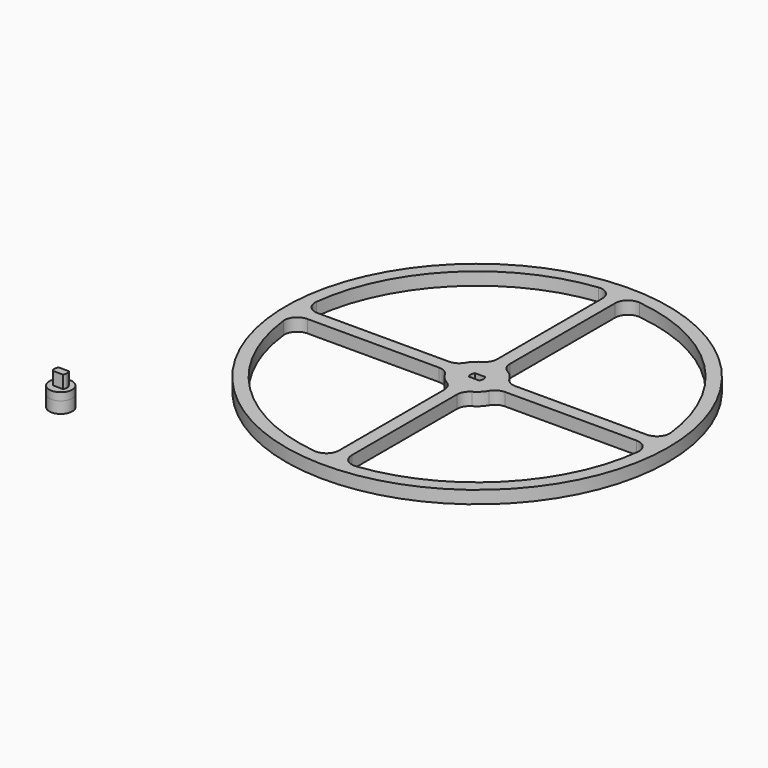
from build123d import *

# Parameters (mm, degrees)
F0_R     = 75
F1_DEPTH = 5
F2_R     = 4.5
F3_DEPTH = 4.5
F4_DEPTH = 3
F5_W     = 3.949684
F5_H     = 2.9
F6_DEPTH = 5


with BuildPart() as f1:
    # F0 (on Top) → F1 (new body)
    with BuildSketch(Plane.XY):
        Circle(F0_R)
        with BuildLine():
            Line((-64.565858, -2.5), (-12.990381, -2.5))
            ThreePointArc((-12.990381, -2.5), (-10.490381, -3.169873), (-8.660254, -5))
            ThreePointArc((-8.660254, -5), (-7.071068, -7.071068), (-5, -8.660254))
            ThreePointArc((-5, -8.660254), (-3.169873, -10.490381), (-2.5, -12.990381))
            Line((-2.5, -12.990381), (-2.5, -64.565858))
            ThreePointArc((-2.5, -64.565858), (-4.174689, -68.299798), (-8.076923, -69.532462))
            ThreePointArc((-8.076923, -69.532462), (-49.497475, -49.497475), (-69.532462, -8.076923))
            ThreePointArc((-69.532462, -8.076923), (-68.299798, -4.174689), (-64.565858, -2.5))
        make_face(mode=Mode.SUBTRACT)
        with BuildLine():
            ThreePointArc((8.660254, -5), (10.490381, -3.169873), (12.990381, -2.5))
            Line((12.990381, -2.5), (64.565858, -2.5))
            ThreePointArc((64.565858, -2.5), (68.299798, -4.174689), (69.532462, -8.076923))
            ThreePointArc((69.532462, -8.076923), (49.497475, -49.497475), (8.076923, -69.532462))
            ThreePointArc((8.076923, -69.532462), (4.174689, -68.299798), (2.5, -64.565858))
            Line((2.5, -64.565858), (2.5, -12.990381))
            ThreePointArc((2.5, -12.990381), (3.169873, -10.490381), (5, -8.660254))
            ThreePointArc((5, -8.660254), (7.071068, -7.071068), (8.660254, -5))
        make_face(mode=Mode.SUBTRACT)
        with BuildLine():
            Line((-2.5, 64.565858), (-2.5, 12.990381))
            ThreePointArc((-2.5, 12.990381), (-3.169873, 10.490381), (-5, 8.660254))
            ThreePointArc((-5, 8.660254), (-7.071068, 7.071068), (-8.660254, 5))
            ThreePointArc((-8.660254, 5), (-10.490381, 3.169873), (-12.990381, 2.5))
            Line((-12.990381, 2.5), (-64.565858, 2.5))
            ThreePointArc((-64.565858, 2.5), (-68.299798, 4.174689), (-69.532462, 8.076923))
            ThreePointArc((-69.532462, 8.076923), (-49.497475, 49.497475), (-8.076923, 69.532462))
            ThreePointArc((-8.076923, 69.532462), (-4.174689, 68.299798), (-2.5, 64.565858))
        make_face(mode=Mode.SUBTRACT)
        with BuildLine():
            ThreePointArc((-2, -1.5), (-2.5, 0), (-2, 1.5))
            Line((-2, 1.5), (2, 1.5))
            ThreePointArc((2, 1.5), (2.5, 0), (2, -1.5))
            Line((2, -1.5), (-2, -1.5))
        make_face(mode=Mode.SUBTRACT)
        with BuildLine():
            ThreePointArc((12.990381, 2.5), (10.490381, 3.169873), (8.660254, 5))
            ThreePointArc((8.660254, 5), (7.071068, 7.071068), (5, 8.660254))
            ThreePointArc((5, 8.660254), (3.169873, 10.490381), (2.5, 12.990381))
            Line((2.5, 12.990381), (2.5, 64.565858))
            ThreePointArc((2.5, 64.565858), (4.174689, 68.299798), (8.076923, 69.532462))
            ThreePointArc((8.076923, 69.532462), (49.497475, 49.497475), (69.532462, 8.076923))
            ThreePointArc((69.532462, 8.076923), (68.299798, 4.174689), (64.565858, 2.5))
            Line((64.565858, 2.5), (12.990381, 2.5))
        make_face(mode=Mode.SUBTRACT)
    extrude(amount=F1_DEPTH)


with BuildPart() as f3:
    # F2 (on Top) → F3 (new body)
    with BuildSketch(Plane.XY):
        with Locations((-98.383606, -81.141531)):
            Circle(F2_R)
        with BuildLine():
            Line((-100.575833, -78.807047), (-100.1234, -78.821377))
            ThreePointArc((-100.1234, -78.821377), (-100.088183, -78.795382), (-100.052578, -78.769922))
            Line((-100.052578, -78.769922), (-99.926398, -78.335204))
            Line((-99.926398, -78.335204), (-99.491742, -78.4616))
            ThreePointArc((-99.491742, -78.4616), (-99.451167, -78.44518), (-99.410349, -78.429374))
            Line((-99.410349, -78.429374), (-99.180023, -78.039693))
            Line((-99.180023, -78.039693), (-98.790456, -78.270212))
            ThreePointArc((-98.790456, -78.270212), (-98.747072, -78.264399), (-98.703606, -78.259241))
            Line((-98.703606, -78.259241), (-98.383606, -77.939083))
            Line((-98.383606, -77.939083), (-98.063606, -78.259241))
            ThreePointArc((-98.063606, -78.259241), (-98.02014, -78.264399), (-97.976756, -78.270212))
            Line((-97.976756, -78.270212), (-97.587189, -78.039693))
            Line((-97.587189, -78.039693), (-97.356863, -78.429374))
            ThreePointArc((-97.356863, -78.429374), (-97.316045, -78.44518), (-97.27547, -78.4616))
            Line((-97.27547, -78.4616), (-96.840815, -78.335204))
            Line((-96.840815, -78.335204), (-96.714634, -78.769922))
            ThreePointArc((-96.714634, -78.769922), (-96.679029, -78.795382), (-96.643812, -78.821377))
            Line((-96.643812, -78.821377), (-96.191379, -78.807047))
            Line((-96.191379, -78.807047), (-96.177272, -79.259487))
            ThreePointArc((-96.177272, -79.259487), (-96.149118, -79.293002), (-96.121472, -79.326938))
            Line((-96.121472, -79.326938), (-95.679689, -79.425574))
            Line((-95.679689, -79.425574), (-95.778543, -79.867308))
            ThreePointArc((-95.778543, -79.867308), (-95.759608, -79.906772), (-95.74127, -79.946517))
            Line((-95.74127, -79.946517), (-95.337896, -80.15192))
            Line((-95.337896, -80.15192), (-95.543499, -80.555193))
            ThreePointArc((-95.543499, -80.555193), (-95.534973, -80.598126), (-95.527096, -80.641182))
            Line((-95.527096, -80.641182), (-95.187476, -80.940448))
            Line((-95.187476, -80.940448), (-95.48691, -81.27992))
            ThreePointArc((-95.48691, -81.27992), (-95.489329, -81.323624), (-95.492407, -81.367287))
            Line((-95.492407, -81.367287), (-95.237881, -81.741611))
            Line((-95.237881, -81.741611), (-95.612331, -81.995951))
            ThreePointArc((-95.612331, -81.995951), (-95.625542, -82.037681), (-95.639382, -82.079207))
            Line((-95.639382, -82.079207), (-95.485944, -82.505068))
            Line((-95.485944, -82.505068), (-95.911881, -82.658296))
            ThreePointArc((-95.911881, -82.658296), (-95.935055, -82.695429), (-95.958787, -82.732209))
            Line((-95.958787, -82.732209), (-95.916077, -83.182849))
            Line((-95.916077, -83.182849), (-96.366739, -83.225337))
            ThreePointArc((-96.366739, -83.225337), (-96.398419, -83.255541), (-96.430553, -83.285262))
            Line((-96.430553, -83.285262), (-96.501254, -83.732367))
            Line((-96.501254, -83.732367), (-96.948323, -83.661445))
            ThreePointArc((-96.948323, -83.661445), (-96.98652, -83.682821), (-97.025036, -83.703618))
            Line((-97.025036, -83.703618), (-97.204706, -84.119093))
            Line((-97.204706, -84.119093), (-97.620093, -83.939218))
            ThreePointArc((-97.620093, -83.939218), (-97.662405, -83.950423), (-97.704882, -83.960988))
            Line((-97.704882, -83.960988), (-97.982233, -84.318728))
            Line((-97.982233, -84.318728), (-98.339836, -84.041201))
            ThreePointArc((-98.339836, -84.041201), (-98.383606, -84.041531), (-98.427376, -84.041201))
            Line((-98.427376, -84.041201), (-98.784979, -84.318728))
            Line((-98.784979, -84.318728), (-99.06233, -83.960988))
            ThreePointArc((-99.06233, -83.960988), (-99.104807, -83.950423), (-99.14712, -83.939218))
            Line((-99.14712, -83.939218), (-99.562506, -84.119093))
            Line((-99.562506, -84.119093), (-99.742176, -83.703618))
            ThreePointArc((-99.742176, -83.703618), (-99.780692, -83.682821), (-99.818889, -83.661445))
            Line((-99.818889, -83.661445), (-100.265958, -83.732367))
            Line((-100.265958, -83.732367), (-100.336659, -83.285262))
            ThreePointArc((-100.336659, -83.285262), (-100.368793, -83.255541), (-100.400474, -83.225337))
            Line((-100.400474, -83.225337), (-100.851135, -83.182849))
            Line((-100.851135, -83.182849), (-100.808425, -82.732209))
            ThreePointArc((-100.808425, -82.732209), (-100.832157, -82.695429), (-100.855331, -82.658296))
            Line((-100.855331, -82.658296), (-101.281268, -82.505068))
            Line((-101.281268, -82.505068), (-101.12783, -82.079207))
            ThreePointArc((-101.12783, -82.079207), (-101.14167, -82.037681), (-101.154881, -81.995951))
            Line((-101.154881, -81.995951), (-101.529331, -81.741611))
            Line((-101.529331, -81.741611), (-101.274806, -81.367287))
            ThreePointArc((-101.274806, -81.367287), (-101.277884, -81.323624), (-101.280302, -81.27992))
            Line((-101.280302, -81.27992), (-101.579736, -80.940448))
            Line((-101.579736, -80.940448), (-101.240116, -80.641182))
            ThreePointArc((-101.240116, -80.641182), (-101.232239, -80.598126), (-101.223713, -80.555193))
            Line((-101.223713, -80.555193), (-101.429316, -80.15192))
            Line((-101.429316, -80.15192), (-101.025942, -79.946517))
            ThreePointArc((-101.025942, -79.946517), (-101.007604, -79.906772), (-100.988669, -79.867308))
            Line((-100.988669, -79.867308), (-101.087523, -79.425574))
            Line((-101.087523, -79.425574), (-100.64574, -79.326938))
            ThreePointArc((-100.64574, -79.326938), (-100.618094, -79.293002), (-100.58994, -79.259487))
            Line((-100.58994, -79.259487), (-100.575833, -78.807047))
        make_face(mode=Mode.SUBTRACT)
    extrude(amount=-F3_DEPTH)

    # F2 (on Top) → F4 (join)
    with BuildSketch(Plane.XY):
        with Locations((-98.383606, -81.141531)):
            Circle(F2_R)
        with BuildLine():
            Line((-100.575833, -78.807047), (-100.1234, -78.821377))
            ThreePointArc((-100.1234, -78.821377), (-100.088183, -78.795382), (-100.052578, -78.769922))
            Line((-100.052578, -78.769922), (-99.926398, -78.335204))
            Line((-99.926398, -78.335204), (-99.491742, -78.4616))
            ThreePointArc((-99.491742, -78.4616), (-99.451167, -78.44518), (-99.410349, -78.429374))
            Line((-99.410349, -78.429374), (-99.180023, -78.039693))
            Line((-99.180023, -78.039693), (-98.790456, -78.270212))
            ThreePointArc((-98.790456, -78.270212), (-98.747072, -78.264399), (-98.703606, -78.259241))
            Line((-98.703606, -78.259241), (-98.383606, -77.939083))
            Line((-98.383606, -77.939083), (-98.063606, -78.259241))
            ThreePointArc((-98.063606, -78.259241), (-98.02014, -78.264399), (-97.976756, -78.270212))
            Line((-97.976756, -78.270212), (-97.587189, -78.039693))
            Line((-97.587189, -78.039693), (-97.356863, -78.429374))
            ThreePointArc((-97.356863, -78.429374), (-97.316045, -78.44518), (-97.27547, -78.4616))
            Line((-97.27547, -78.4616), (-96.840815, -78.335204))
            Line((-96.840815, -78.335204), (-96.714634, -78.769922))
            ThreePointArc((-96.714634, -78.769922), (-96.679029, -78.795382), (-96.643812, -78.821377))
            Line((-96.643812, -78.821377), (-96.191379, -78.807047))
            Line((-96.191379, -78.807047), (-96.177272, -79.259487))
            ThreePointArc((-96.177272, -79.259487), (-96.149118, -79.293002), (-96.121472, -79.326938))
            Line((-96.121472, -79.326938), (-95.679689, -79.425574))
            Line((-95.679689, -79.425574), (-95.778543, -79.867308))
            ThreePointArc((-95.778543, -79.867308), (-95.759608, -79.906772), (-95.74127, -79.946517))
            Line((-95.74127, -79.946517), (-95.337896, -80.15192))
            Line((-95.337896, -80.15192), (-95.543499, -80.555193))
            ThreePointArc((-95.543499, -80.555193), (-95.534973, -80.598126), (-95.527096, -80.641182))
            Line((-95.527096, -80.641182), (-95.187476, -80.940448))
            Line((-95.187476, -80.940448), (-95.48691, -81.27992))
            ThreePointArc((-95.48691, -81.27992), (-95.489329, -81.323624), (-95.492407, -81.367287))
            Line((-95.492407, -81.367287), (-95.237881, -81.741611))
            Line((-95.237881, -81.741611), (-95.612331, -81.995951))
            ThreePointArc((-95.612331, -81.995951), (-95.625542, -82.037681), (-95.639382, -82.079207))
            Line((-95.639382, -82.079207), (-95.485944, -82.505068))
            Line((-95.485944, -82.505068), (-95.911881, -82.658296))
            ThreePointArc((-95.911881, -82.658296), (-95.935055, -82.695429), (-95.958787, -82.732209))
            Line((-95.958787, -82.732209), (-95.916077, -83.182849))
            Line((-95.916077, -83.182849), (-96.366739, -83.225337))
            ThreePointArc((-96.366739, -83.225337), (-96.398419, -83.255541), (-96.430553, -83.285262))
            Line((-96.430553, -83.285262), (-96.501254, -83.732367))
            Line((-96.501254, -83.732367), (-96.948323, -83.661445))
            ThreePointArc((-96.948323, -83.661445), (-96.98652, -83.682821), (-97.025036, -83.703618))
            Line((-97.025036, -83.703618), (-97.204706, -84.119093))
            Line((-97.204706, -84.119093), (-97.620093, -83.939218))
            ThreePointArc((-97.620093, -83.939218), (-97.662405, -83.950423), (-97.704882, -83.960988))
            Line((-97.704882, -83.960988), (-97.982233, -84.318728))
            Line((-97.982233, -84.318728), (-98.339836, -84.041201))
            ThreePointArc((-98.339836, -84.041201), (-98.383606, -84.041531), (-98.427376, -84.041201))
            Line((-98.427376, -84.041201), (-98.784979, -84.318728))
            Line((-98.784979, -84.318728), (-99.06233, -83.960988))
            ThreePointArc((-99.06233, -83.960988), (-99.104807, -83.950423), (-99.14712, -83.939218))
            Line((-99.14712, -83.939218), (-99.562506, -84.119093))
            Line((-99.562506, -84.119093), (-99.742176, -83.703618))
            ThreePointArc((-99.742176, -83.703618), (-99.780692, -83.682821), (-99.818889, -83.661445))
            Line((-99.818889, -83.661445), (-100.265958, -83.732367))
            Line((-100.265958, -83.732367), (-100.336659, -83.285262))
            ThreePointArc((-100.336659, -83.285262), (-100.368793, -83.255541), (-100.400474, -83.225337))
            Line((-100.400474, -83.225337), (-100.851135, -83.182849))
            Line((-100.851135, -83.182849), (-100.808425, -82.732209))
            ThreePointArc((-100.808425, -82.732209), (-100.832157, -82.695429), (-100.855331, -82.658296))
            Line((-100.855331, -82.658296), (-101.281268, -82.505068))
            Line((-101.281268, -82.505068), (-101.12783, -82.079207))
            ThreePointArc((-101.12783, -82.079207), (-101.14167, -82.037681), (-101.154881, -81.995951))
            Line((-101.154881, -81.995951), (-101.529331, -81.741611))
            Line((-101.529331, -81.741611), (-101.274806, -81.367287))
            ThreePointArc((-101.274806, -81.367287), (-101.277884, -81.323624), (-101.280302, -81.27992))
            Line((-101.280302, -81.27992), (-101.579736, -80.940448))
            Line((-101.579736, -80.940448), (-101.240116, -80.641182))
            ThreePointArc((-101.240116, -80.641182), (-101.232239, -80.598126), (-101.223713, -80.555193))
            Line((-101.223713, -80.555193), (-101.429316, -80.15192))
            Line((-101.429316, -80.15192), (-101.025942, -79.946517))
            ThreePointArc((-101.025942, -79.946517), (-101.007604, -79.906772), (-100.988669, -79.867308))
            Line((-100.988669, -79.867308), (-101.087523, -79.425574))
            Line((-101.087523, -79.425574), (-100.64574, -79.326938))
            ThreePointArc((-100.64574, -79.326938), (-100.618094, -79.293002), (-100.58994, -79.259487))
            Line((-100.58994, -79.259487), (-100.575833, -78.807047))
        make_face(mode=Mode.SUBTRACT)
        with BuildLine():
            ThreePointArc((-100.052578, -78.769922), (-100.088183, -78.795382), (-100.1234, -78.821377))
            ThreePointArc((-100.1234, -78.821377), (-100.368793, -79.027522), (-100.58994, -79.259487))
            ThreePointArc((-100.58994, -79.259487), (-100.618094, -79.293002), (-100.64574, -79.326938))
            ThreePointArc((-100.64574, -79.326938), (-100.832157, -79.587634), (-100.988669, -79.867308))
            ThreePointArc((-100.988669, -79.867308), (-101.007604, -79.906772), (-101.025942, -79.946517))
            ThreePointArc((-101.025942, -79.946517), (-101.14167, -80.245382), (-101.223713, -80.555193))
            ThreePointArc((-101.223713, -80.555193), (-101.232239, -80.598126), (-101.240116, -80.641182))
            ThreePointArc((-101.240116, -80.641182), (-101.277884, -80.959439), (-101.280302, -81.27992))
            ThreePointArc((-101.280302, -81.27992), (-101.277884, -81.323624), (-101.274806, -81.367287))
            ThreePointArc((-101.274806, -81.367287), (-101.232239, -81.684937), (-101.154881, -81.995951))
            ThreePointArc((-101.154881, -81.995951), (-101.14167, -82.037681), (-101.12783, -82.079207))
            ThreePointArc((-101.12783, -82.079207), (-101.007604, -82.376291), (-100.855331, -82.658296))
            ThreePointArc((-100.855331, -82.658296), (-100.832157, -82.695429), (-100.808425, -82.732209))
            ThreePointArc((-100.808425, -82.732209), (-100.618094, -82.990061), (-100.400474, -83.225337))
            ThreePointArc((-100.400474, -83.225337), (-100.368793, -83.255541), (-100.336659, -83.285262))
            ThreePointArc((-100.336659, -83.285262), (-100.088183, -83.487681), (-99.818889, -83.661445))
            ThreePointArc((-99.818889, -83.661445), (-99.780692, -83.682821), (-99.742176, -83.703618))
            ThreePointArc((-99.742176, -83.703618), (-99.451167, -83.837883), (-99.14712, -83.939218))
            ThreePointArc((-99.14712, -83.939218), (-99.104807, -83.950423), (-99.06233, -83.960988))
            ThreePointArc((-99.06233, -83.960988), (-98.747072, -84.018664), (-98.427376, -84.041201))
            ThreePointArc((-98.427376, -84.041201), (-98.383606, -84.041531), (-98.339836, -84.041201))
            ThreePointArc((-98.339836, -84.041201), (-98.02014, -84.018664), (-97.704882, -83.960988))
            ThreePointArc((-97.704882, -83.960988), (-97.662405, -83.950423), (-97.620093, -83.939218))
            ThreePointArc((-97.620093, -83.939218), (-97.316045, -83.837883), (-97.025036, -83.703618))
            ThreePointArc((-97.025036, -83.703618), (-96.98652, -83.682821), (-96.948323, -83.661445))
            ThreePointArc((-96.948323, -83.661445), (-96.679029, -83.487681), (-96.430553, -83.285262))
            ThreePointArc((-96.430553, -83.285262), (-96.398419, -83.255541), (-96.366739, -83.225337))
            ThreePointArc((-96.366739, -83.225337), (-96.149118, -82.990061), (-95.958787, -82.732209))
            ThreePointArc((-95.958787, -82.732209), (-95.935055, -82.695429), (-95.911881, -82.658296))
            ThreePointArc((-95.911881, -82.658296), (-95.759608, -82.376291), (-95.639382, -82.079207))
            ThreePointArc((-95.639382, -82.079207), (-95.625542, -82.037681), (-95.612331, -81.995951))
            ThreePointArc((-95.612331, -81.995951), (-95.534973, -81.684937), (-95.492407, -81.367287))
            ThreePointArc((-95.492407, -81.367287), (-95.489329, -81.323624), (-95.48691, -81.27992))
            ThreePointArc((-95.48691, -81.27992), (-95.489329, -80.959439), (-95.527096, -80.641182))
            ThreePointArc((-95.527096, -80.641182), (-95.534973, -80.598126), (-95.543499, -80.555193))
            ThreePointArc((-95.543499, -80.555193), (-95.625542, -80.245382), (-95.74127, -79.946517))
            ThreePointArc((-95.74127, -79.946517), (-95.759608, -79.906772), (-95.778543, -79.867308))
            ThreePointArc((-95.778543, -79.867308), (-95.935055, -79.587634), (-96.121472, -79.326938))
            ThreePointArc((-96.121472, -79.326938), (-96.149118, -79.293002), (-96.177272, -79.259487))
            ThreePointArc((-96.177272, -79.259487), (-96.398419, -79.027522), (-96.643812, -78.821377))
            ThreePointArc((-96.643812, -78.821377), (-96.679029, -78.795382), (-96.714634, -78.769922))
            ThreePointArc((-96.714634, -78.769922), (-96.98652, -78.600242), (-97.27547, -78.4616))
            ThreePointArc((-97.27547, -78.4616), (-97.316045, -78.44518), (-97.356863, -78.429374))
            ThreePointArc((-97.356863, -78.429374), (-97.662405, -78.33264), (-97.976756, -78.270212))
            ThreePointArc((-97.976756, -78.270212), (-98.02014, -78.264399), (-98.063606, -78.259241))
            ThreePointArc((-98.063606, -78.259241), (-98.383606, -78.241531), (-98.703606, -78.259241))
            ThreePointArc((-98.703606, -78.259241), (-98.747072, -78.264399), (-98.790456, -78.270212))
            ThreePointArc((-98.790456, -78.270212), (-99.104807, -78.33264), (-99.410349, -78.429374))
            ThreePointArc((-99.410349, -78.429374), (-99.451167, -78.44518), (-99.491742, -78.4616))
            ThreePointArc((-99.491742, -78.4616), (-99.780692, -78.600242), (-100.052578, -78.769922))
        make_face()
        with BuildLine():
            ThreePointArc((-100.052578, -78.769922), (-100.088183, -78.795382), (-100.1234, -78.821377))
            ThreePointArc((-100.1234, -78.821377), (-100.368793, -79.027522), (-100.58994, -79.259487))
            ThreePointArc((-100.58994, -79.259487), (-100.618094, -79.293002), (-100.64574, -79.326938))
            ThreePointArc((-100.64574, -79.326938), (-100.832157, -79.587634), (-100.988669, -79.867308))
            ThreePointArc((-100.988669, -79.867308), (-101.007604, -79.906772), (-101.025942, -79.946517))
            ThreePointArc((-101.025942, -79.946517), (-101.14167, -80.245382), (-101.223713, -80.555193))
            ThreePointArc((-101.223713, -80.555193), (-101.232239, -80.598126), (-101.240116, -80.641182))
            ThreePointArc((-101.240116, -80.641182), (-101.277884, -80.959439), (-101.280302, -81.27992))
            ThreePointArc((-101.280302, -81.27992), (-101.277884, -81.323624), (-101.274806, -81.367287))
            ThreePointArc((-101.274806, -81.367287), (-101.232239, -81.684937), (-101.154881, -81.995951))
            ThreePointArc((-101.154881, -81.995951), (-101.14167, -82.037681), (-101.12783, -82.079207))
            ThreePointArc((-101.12783, -82.079207), (-101.007604, -82.376291), (-100.855331, -82.658296))
            ThreePointArc((-100.855331, -82.658296), (-100.832157, -82.695429), (-100.808425, -82.732209))
            ThreePointArc((-100.808425, -82.732209), (-100.618094, -82.990061), (-100.400474, -83.225337))
            ThreePointArc((-100.400474, -83.225337), (-100.368793, -83.255541), (-100.336659, -83.285262))
            ThreePointArc((-100.336659, -83.285262), (-100.088183, -83.487681), (-99.818889, -83.661445))
            ThreePointArc((-99.818889, -83.661445), (-99.780692, -83.682821), (-99.742176, -83.703618))
            ThreePointArc((-99.742176, -83.703618), (-99.451167, -83.837883), (-99.14712, -83.939218))
            ThreePointArc((-99.14712, -83.939218), (-99.104807, -83.950423), (-99.06233, -83.960988))
            ThreePointArc((-99.06233, -83.960988), (-98.747072, -84.018664), (-98.427376, -84.041201))
            ThreePointArc((-98.427376, -84.041201), (-98.383606, -84.041531), (-98.339836, -84.041201))
            ThreePointArc((-98.339836, -84.041201), (-98.02014, -84.018664), (-97.704882, -83.960988))
            ThreePointArc((-97.704882, -83.960988), (-97.662405, -83.950423), (-97.620093, -83.939218))
            ThreePointArc((-97.620093, -83.939218), (-97.316045, -83.837883), (-97.025036, -83.703618))
            ThreePointArc((-97.025036, -83.703618), (-96.98652, -83.682821), (-96.948323, -83.661445))
            ThreePointArc((-96.948323, -83.661445), (-96.679029, -83.487681), (-96.430553, -83.285262))
            ThreePointArc((-96.430553, -83.285262), (-96.398419, -83.255541), (-96.366739, -83.225337))
            ThreePointArc((-96.366739, -83.225337), (-96.149118, -82.990061), (-95.958787, -82.732209))
            ThreePointArc((-95.958787, -82.732209), (-95.935055, -82.695429), (-95.911881, -82.658296))
            ThreePointArc((-95.911881, -82.658296), (-95.759608, -82.376291), (-95.639382, -82.079207))
            ThreePointArc((-95.639382, -82.079207), (-95.625542, -82.037681), (-95.612331, -81.995951))
            ThreePointArc((-95.612331, -81.995951), (-95.534973, -81.684937), (-95.492407, -81.367287))
            ThreePointArc((-95.492407, -81.367287), (-95.489329, -81.323624), (-95.48691, -81.27992))
            ThreePointArc((-95.48691, -81.27992), (-95.489329, -80.959439), (-95.527096, -80.641182))
            ThreePointArc((-95.527096, -80.641182), (-95.534973, -80.598126), (-95.543499, -80.555193))
            ThreePointArc((-95.543499, -80.555193), (-95.625542, -80.245382), (-95.74127, -79.946517))
            ThreePointArc((-95.74127, -79.946517), (-95.759608, -79.906772), (-95.778543, -79.867308))
            ThreePointArc((-95.778543, -79.867308), (-95.935055, -79.587634), (-96.121472, -79.326938))
            ThreePointArc((-96.121472, -79.326938), (-96.149118, -79.293002), (-96.177272, -79.259487))
            ThreePointArc((-96.177272, -79.259487), (-96.398419, -79.027522), (-96.643812, -78.821377))
            ThreePointArc((-96.643812, -78.821377), (-96.679029, -78.795382), (-96.714634, -78.769922))
            ThreePointArc((-96.714634, -78.769922), (-96.98652, -78.600242), (-97.27547, -78.4616))
            ThreePointArc((-97.27547, -78.4616), (-97.316045, -78.44518), (-97.356863, -78.429374))
            ThreePointArc((-97.356863, -78.429374), (-97.662405, -78.33264), (-97.976756, -78.270212))
            ThreePointArc((-97.976756, -78.270212), (-98.02014, -78.264399), (-98.063606, -78.259241))
            ThreePointArc((-98.063606, -78.259241), (-98.383606, -78.241531), (-98.703606, -78.259241))
            ThreePointArc((-98.703606, -78.259241), (-98.747072, -78.264399), (-98.790456, -78.270212))
            ThreePointArc((-98.790456, -78.270212), (-99.104807, -78.33264), (-99.410349, -78.429374))
            ThreePointArc((-99.410349, -78.429374), (-99.451167, -78.44518), (-99.491742, -78.4616))
            ThreePointArc((-99.491742, -78.4616), (-99.780692, -78.600242), (-100.052578, -78.769922))
        make_face()
        with BuildLine():
            ThreePointArc((-100.58994, -79.259487), (-100.368793, -79.027522), (-100.1234, -78.821377))
            Line((-100.1234, -78.821377), (-100.575833, -78.807047))
            Line((-100.575833, -78.807047), (-100.58994, -79.259487))
        make_face()
        with BuildLine():
            Line((-99.926398, -78.335204), (-100.052578, -78.769922))
            ThreePointArc((-100.052578, -78.769922), (-99.780692, -78.600242), (-99.491742, -78.4616))
            Line((-99.491742, -78.4616), (-99.926398, -78.335204))
        make_face()
        with BuildLine():
            Line((-99.180023, -78.039693), (-99.410349, -78.429374))
            ThreePointArc((-99.410349, -78.429374), (-99.104807, -78.33264), (-98.790456, -78.270212))
            Line((-98.790456, -78.270212), (-99.180023, -78.039693))
        make_face()
        with BuildLine():
            Line((-98.383606, -77.939083), (-98.703606, -78.259241))
            ThreePointArc((-98.703606, -78.259241), (-98.383606, -78.241531), (-98.063606, -78.259241))
            Line((-98.063606, -78.259241), (-98.383606, -77.939083))
        make_face()
        with BuildLine():
            Line((-97.587189, -78.039693), (-97.976756, -78.270212))
            ThreePointArc((-97.976756, -78.270212), (-97.662405, -78.33264), (-97.356863, -78.429374))
            Line((-97.356863, -78.429374), (-97.587189, -78.039693))
        make_face()
        with BuildLine():
            Line((-96.840815, -78.335204), (-97.27547, -78.4616))
            ThreePointArc((-97.27547, -78.4616), (-96.98652, -78.600242), (-96.714634, -78.769922))
            Line((-96.714634, -78.769922), (-96.840815, -78.335204))
        make_face()
        with BuildLine():
            Line((-96.191379, -78.807047), (-96.643812, -78.821377))
            ThreePointArc((-96.643812, -78.821377), (-96.398419, -79.027522), (-96.177272, -79.259487))
            Line((-96.177272, -79.259487), (-96.191379, -78.807047))
        make_face()
        with BuildLine():
            Line((-95.679689, -79.425574), (-96.121472, -79.326938))
            ThreePointArc((-96.121472, -79.326938), (-95.935055, -79.587634), (-95.778543, -79.867308))
            Line((-95.778543, -79.867308), (-95.679689, -79.425574))
        make_face()
        with BuildLine():
            Line((-95.337896, -80.15192), (-95.74127, -79.946517))
            ThreePointArc((-95.74127, -79.946517), (-95.625542, -80.245382), (-95.543499, -80.555193))
            Line((-95.543499, -80.555193), (-95.337896, -80.15192))
        make_face()
        with BuildLine():
            Line((-95.187476, -80.940448), (-95.527096, -80.641182))
            ThreePointArc((-95.527096, -80.641182), (-95.489329, -80.959439), (-95.48691, -81.27992))
            Line((-95.48691, -81.27992), (-95.187476, -80.940448))
        make_face()
        with BuildLine():
            Line((-95.237881, -81.741611), (-95.492407, -81.367287))
            ThreePointArc((-95.492407, -81.367287), (-95.534973, -81.684937), (-95.612331, -81.995951))
            Line((-95.612331, -81.995951), (-95.237881, -81.741611))
        make_face()
        with BuildLine():
            Line((-95.485944, -82.505068), (-95.639382, -82.079207))
            ThreePointArc((-95.639382, -82.079207), (-95.759608, -82.376291), (-95.911881, -82.658296))
            Line((-95.911881, -82.658296), (-95.485944, -82.505068))
        make_face()
        with BuildLine():
            Line((-95.916077, -83.182849), (-95.958787, -82.732209))
            ThreePointArc((-95.958787, -82.732209), (-96.149118, -82.990061), (-96.366739, -83.225337))
            Line((-96.366739, -83.225337), (-95.916077, -83.182849))
        make_face()
        with BuildLine():
            ThreePointArc((-96.430553, -83.285262), (-96.679029, -83.487681), (-96.948323, -83.661445))
            Line((-96.948323, -83.661445), (-96.501254, -83.732367))
            Line((-96.501254, -83.732367), (-96.430553, -83.285262))
        make_face()
        with BuildLine():
            ThreePointArc((-97.025036, -83.703618), (-97.316045, -83.837883), (-97.620093, -83.939218))
            Line((-97.620093, -83.939218), (-97.204706, -84.119093))
            Line((-97.204706, -84.119093), (-97.025036, -83.703618))
        make_face()
        with BuildLine():
            ThreePointArc((-100.988669, -79.867308), (-100.832157, -79.587634), (-100.64574, -79.326938))
            Line((-100.64574, -79.326938), (-101.087523, -79.425574))
            Line((-101.087523, -79.425574), (-100.988669, -79.867308))
        make_face()
        with BuildLine():
            ThreePointArc((-101.223713, -80.555193), (-101.14167, -80.245382), (-101.025942, -79.946517))
            Line((-101.025942, -79.946517), (-101.429316, -80.15192))
            Line((-101.429316, -80.15192), (-101.223713, -80.555193))
        make_face()
        with BuildLine():
            ThreePointArc((-101.280302, -81.27992), (-101.277884, -80.959439), (-101.240116, -80.641182))
            Line((-101.240116, -80.641182), (-101.579736, -80.940448))
            Line((-101.579736, -80.940448), (-101.280302, -81.27992))
        make_face()
        with BuildLine():
            ThreePointArc((-101.154881, -81.995951), (-101.232239, -81.684937), (-101.274806, -81.367287))
            Line((-101.274806, -81.367287), (-101.529331, -81.741611))
            Line((-101.529331, -81.741611), (-101.154881, -81.995951))
        make_face()
        with BuildLine():
            ThreePointArc((-100.855331, -82.658296), (-101.007604, -82.376291), (-101.12783, -82.079207))
            Line((-101.12783, -82.079207), (-101.281268, -82.505068))
            Line((-101.281268, -82.505068), (-100.855331, -82.658296))
        make_face()
        with BuildLine():
            ThreePointArc((-100.400474, -83.225337), (-100.618094, -82.990061), (-100.808425, -82.732209))
            Line((-100.808425, -82.732209), (-100.851135, -83.182849))
            Line((-100.851135, -83.182849), (-100.400474, -83.225337))
        make_face()
        with BuildLine():
            ThreePointArc((-99.818889, -83.661445), (-100.088183, -83.487681), (-100.336659, -83.285262))
            Line((-100.336659, -83.285262), (-100.265958, -83.732367))
            Line((-100.265958, -83.732367), (-99.818889, -83.661445))
        make_face()
        with BuildLine():
            ThreePointArc((-99.14712, -83.939218), (-99.451167, -83.837883), (-99.742176, -83.703618))
            Line((-99.742176, -83.703618), (-99.562506, -84.119093))
            Line((-99.562506, -84.119093), (-99.14712, -83.939218))
        make_face()
        with BuildLine():
            ThreePointArc((-98.427376, -84.041201), (-98.747072, -84.018664), (-99.06233, -83.960988))
            Line((-99.06233, -83.960988), (-98.784979, -84.318728))
            Line((-98.784979, -84.318728), (-98.427376, -84.041201))
        make_face()
        with BuildLine():
            ThreePointArc((-97.704882, -83.960988), (-98.02014, -84.018664), (-98.339836, -84.041201))
            Line((-98.339836, -84.041201), (-97.982233, -84.318728))
            Line((-97.982233, -84.318728), (-97.704882, -83.960988))
        make_face()
    extrude(amount=F4_DEPTH)

    # F5 (on face) → F6 (join)
    with BuildSketch(Plane.XY.offset(3)):
        with BuildLine():
            ThreePointArc((-96.408764, -82.591531), (-96.055424, -81.904466), (-95.933606, -81.141531))
            ThreePointArc((-95.933606, -81.141531), (-96.055424, -80.378597), (-96.408764, -79.691531))
            Line((-96.408764, -79.691531), (-96.408764, -82.591531))
        make_face()
        with Locations((-98.383606, -81.141531)):
            Rectangle(F5_W, F5_H)
        with BuildLine():
            Line((-100.358448, -82.591531), (-100.358448, -79.691531))
            ThreePointArc((-100.358448, -79.691531), (-100.833606, -81.141531), (-100.358448, -82.591531))
        make_face()
    extrude(amount=F6_DEPTH)


solid = Compound([f1.part, f3.part])
